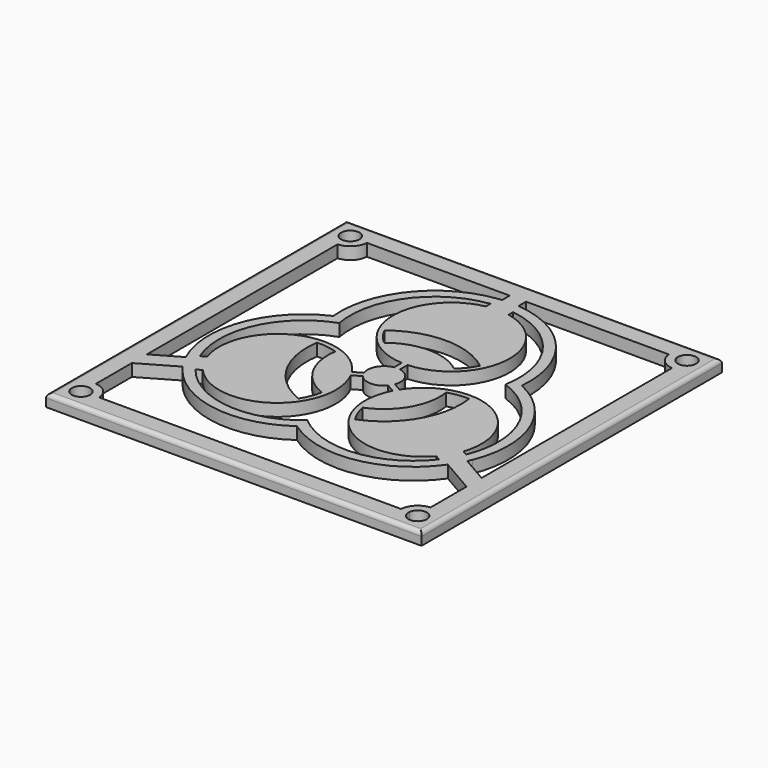
from build123d import *

# Parameters (mm, degrees)
F0_W     = 92
F0_H     = 92
F0_R     = 2.25
F1_DEPTH = 3
F2_R     = 1


with BuildPart() as f1:
    # F0 (on Top) → F1 (new body)
    with BuildSketch(Plane.XY):
        Rectangle(F0_W, F0_H)
        with Locations((-41.25, -41.25)):
            Circle(F0_R, mode=Mode.SUBTRACT)
        with BuildLine():
            ThreePointArc((-6.933505, -17.526739), (-16.323145, -9.424172), (-18.645354, 2.758778))
            ThreePointArc((-18.645354, 2.758778), (-16.0832, 2.660706), (-13.58927, 2.065258))
            ThreePointArc((-13.58927, 2.065258), (-11.903787, -6.872655), (-5.006069, -12.801282))
            ThreePointArc((-5.006069, -12.801282), (-5.737361, -15.258813), (-6.933505, -17.526739))
        make_face(mode=Mode.SUBTRACT)
        with BuildLine():
            ThreePointArc((-32.485448, -21.064883), (-32.155826, -21.524565), (-31.815096, -21.976076))
            ThreePointArc((-31.815096, -21.976076), (-16.852854, -30.72923), (0, -26.671184))
            ThreePointArc((0, -26.671184), (17.411393, -30.639834), (32.485448, -21.064883))
            Line((32.485448, -21.064883), (41, -25.980762))
            Line((41, -25.980762), (41, -37.007359))
            ThreePointArc((41, -37.007359), (38.244796, -38.244796), (37.007359, -41))
            Line((37.007359, -41), (-37.007359, -41))
            ThreePointArc((-37.007359, -41), (-38.244796, -38.244796), (-41, -37.007359))
            Line((-41, -37.007359), (-41, -25.980762))
            Line((-41, -25.980762), (-32.485448, -21.064883))
        make_face(mode=Mode.SUBTRACT)
        with BuildLine():
            ThreePointArc((39.013932, -41), (41.375194, -39.003486), (43.5, -41.25))
            ThreePointArc((43.5, -41.25), (41.124806, -43.496514), (39.013932, -41))
        make_face(mode=Mode.SUBTRACT)
        with BuildLine():
            Line((3.106614, -2.604224), (5.139537, -3.777932))
            ThreePointArc((5.139537, -3.777932), (9.820807, -22.141646), (28.619151, -19.741116))
            Line((28.619151, -19.741116), (29.838639, -20.445188))
            ThreePointArc((29.838639, -20.445188), (15.574425, -28.370131), (0, -23.500859))
            ThreePointArc((0, -23.500859), (-15.573952, -28.370179), (-29.838057, -20.44594))
            Line((-29.838057, -20.44594), (-28.618517, -19.741839))
            ThreePointArc((-28.618517, -19.741839), (-9.821108, -22.141851), (-5.138765, -3.779435))
            Line((-5.138765, -3.779435), (-3.105514, -2.605536))
            ThreePointArc((-3.105514, -2.605536), (0.000856, -4.053768), (3.106614, -2.604224))
        make_face(mode=Mode.SUBTRACT)
        with BuildLine():
            ThreePointArc((18.645354, 2.758778), (16.323145, -9.424172), (6.933505, -17.526739))
            ThreePointArc((6.933505, -17.526739), (5.737361, -15.258813), (5.006069, -12.801282))
            ThreePointArc((5.006069, -12.801282), (11.903787, -6.872655), (13.58927, 2.065258))
            ThreePointArc((13.58927, 2.065258), (16.0832, 2.660706), (18.645354, 2.758778))
        make_face(mode=Mode.SUBTRACT)
        with BuildLine():
            Line((-41, -21.36196), (-41, 37.007359))
            ThreePointArc((-41, 37.007359), (-38.244796, 38.244796), (-37.007359, 41))
            Line((-37.007359, 41), (-2, 41))
            Line((-2, 41), (-2, 38.665665))
            ThreePointArc((-2, 38.665665), (-2.562907, 38.610045), (-3.124292, 38.54072))
            ThreePointArc((-3.124292, 38.54072), (-18.185867, 29.959614), (-23.097923, 13.335592))
            ThreePointArc((-23.097923, 13.335592), (-35.240571, 0.241208), (-34.485448, -17.600782))
            Line((-34.485448, -17.600782), (-41, -21.36196))
        make_face(mode=Mode.SUBTRACT)
        with BuildLine():
            Line((-0.703704, 6.340019), (-0.703704, 3.992222))
            ThreePointArc((-0.703704, 3.992222), (-3.511094, 2.026142), (-3.808631, -1.388295))
            Line((-3.808631, -1.388295), (-5.841554, -2.562003))
            ThreePointArc((-5.841554, -2.562003), (-24.085631, 2.565755), (-31.405884, -14.914353))
            Line((-31.405884, -14.914353), (-32.625372, -15.618425))
            ThreePointArc((-32.625372, -15.618425), (-32.356466, 0.697218), (-20.352341, 11.75043))
            ThreePointArc((-20.352341, 11.75043), (-16.78232, 27.672527), (-2.787675, 36.063485))
            Line((-2.787675, 36.063485), (-2.787675, 34.655283))
            ThreePointArc((-2.787675, 34.655283), (-14.264851, 19.576254), (-0.703704, 6.340019))
        make_face(mode=Mode.SUBTRACT)
        with BuildLine():
            ThreePointArc((-41, 39.013932), (-42.927051, 42.75), (-39, 41.25))
            ThreePointArc((-39, 41.25), (-39.572949, 39.75), (-41, 39.013932))
        make_face(mode=Mode.SUBTRACT)
        with BuildLine():
            Line((0.702017, 3.992519), (0.702017, 6.339936))
            ThreePointArc((0.702017, 6.339936), (14.264824, 19.575891), (2.786733, 34.65547))
            Line((2.786733, 34.65547), (2.786733, 36.063613))
            ThreePointArc((2.786733, 36.063613), (16.782041, 27.672913), (20.352341, 11.75043))
            ThreePointArc((20.352341, 11.75043), (32.356272, 0.697652), (32.625732, -15.617545))
            Line((32.625732, -15.617545), (31.406193, -14.913444))
            ThreePointArc((31.406193, -14.913444), (24.085959, 2.565596), (5.842469, -2.560584))
            Line((5.842469, -2.560584), (3.809217, -1.386686))
            ThreePointArc((3.809217, -1.386686), (3.510238, 2.027625), (0.702017, 3.992519))
        make_face(mode=Mode.SUBTRACT)
        with BuildLine():
            ThreePointArc((34.485448, -17.600782), (34.718733, -17.08548), (34.939388, -16.564644))
            ThreePointArc((34.939388, -16.564644), (35.03872, 0.769615), (23.097923, 13.335592))
            ThreePointArc((23.097923, 13.335592), (17.829178, 30.398626), (2, 38.665665))
            Line((2, 38.665665), (2, 41))
            Line((2, 41), (37.007359, 41))
            ThreePointArc((37.007359, 41), (38.244796, 38.244796), (41, 37.007359))
            Line((41, 37.007359), (41, -21.36196))
            Line((41, -21.36196), (34.485448, -17.600782))
        make_face(mode=Mode.SUBTRACT)
        with BuildLine():
            ThreePointArc((-11.711849, 14.767961), (0, 18.848344), (11.711849, 14.767961))
            ThreePointArc((11.711849, 14.767961), (10.345839, 12.598107), (8.583201, 10.736024))
            ThreePointArc((8.583201, 10.736024), (0, 13.74531), (-8.583201, 10.736024))
            ThreePointArc((-8.583201, 10.736024), (-10.345839, 12.598107), (-11.711849, 14.767961))
        make_face(mode=Mode.SUBTRACT)
        with Locations((41.25, 41.25)):
            Circle(F0_R, mode=Mode.SUBTRACT)
        Rectangle(F0_W, F0_H)
        with Locations((-41.25, -41.25)):
            Circle(F0_R, mode=Mode.SUBTRACT)
        with BuildLine():
            ThreePointArc((-6.933505, -17.526739), (-16.323145, -9.424172), (-18.645354, 2.758778))
            ThreePointArc((-18.645354, 2.758778), (-16.0832, 2.660706), (-13.58927, 2.065258))
            ThreePointArc((-13.58927, 2.065258), (-11.903787, -6.872655), (-5.006069, -12.801282))
            ThreePointArc((-5.006069, -12.801282), (-5.737361, -15.258813), (-6.933505, -17.526739))
        make_face(mode=Mode.SUBTRACT)
        with BuildLine():
            ThreePointArc((-32.485448, -21.064883), (-32.155826, -21.524565), (-31.815096, -21.976076))
            ThreePointArc((-31.815096, -21.976076), (-16.852854, -30.72923), (0, -26.671184))
            ThreePointArc((0, -26.671184), (17.411393, -30.639834), (32.485448, -21.064883))
            Line((32.485448, -21.064883), (41, -25.980762))
            Line((41, -25.980762), (41, -37.007359))
            ThreePointArc((41, -37.007359), (38.244796, -38.244796), (37.007359, -41))
            Line((37.007359, -41), (-37.007359, -41))
            ThreePointArc((-37.007359, -41), (-38.244796, -38.244796), (-41, -37.007359))
            Line((-41, -37.007359), (-41, -25.980762))
            Line((-41, -25.980762), (-32.485448, -21.064883))
        make_face(mode=Mode.SUBTRACT)
        with BuildLine():
            ThreePointArc((39.013932, -41), (41.375194, -39.003486), (43.5, -41.25))
            ThreePointArc((43.5, -41.25), (41.124806, -43.496514), (39.013932, -41))
        make_face(mode=Mode.SUBTRACT)
        with BuildLine():
            Line((3.106614, -2.604224), (5.139537, -3.777932))
            ThreePointArc((5.139537, -3.777932), (9.820807, -22.141646), (28.619151, -19.741116))
            Line((28.619151, -19.741116), (29.838639, -20.445188))
            ThreePointArc((29.838639, -20.445188), (15.574425, -28.370131), (0, -23.500859))
            ThreePointArc((0, -23.500859), (-15.573952, -28.370179), (-29.838057, -20.44594))
            Line((-29.838057, -20.44594), (-28.618517, -19.741839))
            ThreePointArc((-28.618517, -19.741839), (-9.821108, -22.141851), (-5.138765, -3.779435))
            Line((-5.138765, -3.779435), (-3.105514, -2.605536))
            ThreePointArc((-3.105514, -2.605536), (0.000856, -4.053768), (3.106614, -2.604224))
        make_face(mode=Mode.SUBTRACT)
        with BuildLine():
            ThreePointArc((18.645354, 2.758778), (16.323145, -9.424172), (6.933505, -17.526739))
            ThreePointArc((6.933505, -17.526739), (5.737361, -15.258813), (5.006069, -12.801282))
            ThreePointArc((5.006069, -12.801282), (11.903787, -6.872655), (13.58927, 2.065258))
            ThreePointArc((13.58927, 2.065258), (16.0832, 2.660706), (18.645354, 2.758778))
        make_face(mode=Mode.SUBTRACT)
        with BuildLine():
            Line((-41, -21.36196), (-41, 37.007359))
            ThreePointArc((-41, 37.007359), (-38.244796, 38.244796), (-37.007359, 41))
            Line((-37.007359, 41), (-2, 41))
            Line((-2, 41), (-2, 38.665665))
            ThreePointArc((-2, 38.665665), (-2.562907, 38.610045), (-3.124292, 38.54072))
            ThreePointArc((-3.124292, 38.54072), (-18.185867, 29.959614), (-23.097923, 13.335592))
            ThreePointArc((-23.097923, 13.335592), (-35.240571, 0.241208), (-34.485448, -17.600782))
            Line((-34.485448, -17.600782), (-41, -21.36196))
        make_face(mode=Mode.SUBTRACT)
        with BuildLine():
            Line((-0.703704, 6.340019), (-0.703704, 3.992222))
            ThreePointArc((-0.703704, 3.992222), (-3.511094, 2.026142), (-3.808631, -1.388295))
            Line((-3.808631, -1.388295), (-5.841554, -2.562003))
            ThreePointArc((-5.841554, -2.562003), (-24.085631, 2.565755), (-31.405884, -14.914353))
            Line((-31.405884, -14.914353), (-32.625372, -15.618425))
            ThreePointArc((-32.625372, -15.618425), (-32.356466, 0.697218), (-20.352341, 11.75043))
            ThreePointArc((-20.352341, 11.75043), (-16.78232, 27.672527), (-2.787675, 36.063485))
            Line((-2.787675, 36.063485), (-2.787675, 34.655283))
            ThreePointArc((-2.787675, 34.655283), (-14.264851, 19.576254), (-0.703704, 6.340019))
        make_face(mode=Mode.SUBTRACT)
        with BuildLine():
            ThreePointArc((-41, 39.013932), (-42.927051, 42.75), (-39, 41.25))
            ThreePointArc((-39, 41.25), (-39.572949, 39.75), (-41, 39.013932))
        make_face(mode=Mode.SUBTRACT)
        with BuildLine():
            Line((0.702017, 3.992519), (0.702017, 6.339936))
            ThreePointArc((0.702017, 6.339936), (14.264824, 19.575891), (2.786733, 34.65547))
            Line((2.786733, 34.65547), (2.786733, 36.063613))
            ThreePointArc((2.786733, 36.063613), (16.782041, 27.672913), (20.352341, 11.75043))
            ThreePointArc((20.352341, 11.75043), (32.356272, 0.697652), (32.625732, -15.617545))
            Line((32.625732, -15.617545), (31.406193, -14.913444))
            ThreePointArc((31.406193, -14.913444), (24.085959, 2.565596), (5.842469, -2.560584))
            Line((5.842469, -2.560584), (3.809217, -1.386686))
            ThreePointArc((3.809217, -1.386686), (3.510238, 2.027625), (0.702017, 3.992519))
        make_face(mode=Mode.SUBTRACT)
        with BuildLine():
            ThreePointArc((34.485448, -17.600782), (34.718733, -17.08548), (34.939388, -16.564644))
            ThreePointArc((34.939388, -16.564644), (35.03872, 0.769615), (23.097923, 13.335592))
            ThreePointArc((23.097923, 13.335592), (17.829178, 30.398626), (2, 38.665665))
            Line((2, 38.665665), (2, 41))
            Line((2, 41), (37.007359, 41))
            ThreePointArc((37.007359, 41), (38.244796, 38.244796), (41, 37.007359))
            Line((41, 37.007359), (41, -21.36196))
            Line((41, -21.36196), (34.485448, -17.600782))
        make_face(mode=Mode.SUBTRACT)
        with BuildLine():
            ThreePointArc((-11.711849, 14.767961), (0, 18.848344), (11.711849, 14.767961))
            ThreePointArc((11.711849, 14.767961), (10.345839, 12.598107), (8.583201, 10.736024))
            ThreePointArc((8.583201, 10.736024), (0, 13.74531), (-8.583201, 10.736024))
            ThreePointArc((-8.583201, 10.736024), (-10.345839, 12.598107), (-11.711849, 14.767961))
        make_face(mode=Mode.SUBTRACT)
        with Locations((41.25, 41.25)):
            Circle(F0_R, mode=Mode.SUBTRACT)
    extrude(amount=F1_DEPTH)

    # F2
    f2_edges = [f1.edges().sort_by_distance(p)[0] for p in [
        (0, 46, 3),
        (46, 0, 3),
        (-46, 0, 3),
        (0, -46, 3),
    ]]
    fillet(f2_edges, radius=F2_R)


solid = f1.part
